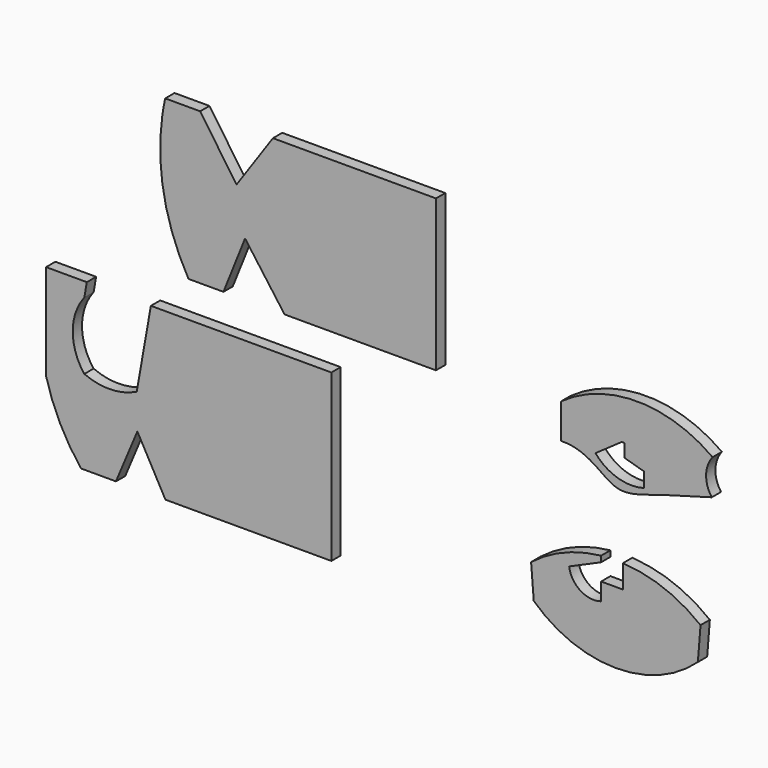
from build123d import *

# Parameters (mm, degrees)
F1_DEPTH = 25.4
F3_DEPTH = 25.4
F5_DEPTH = 25.4
F7_DEPTH = 25.4


with BuildPart() as f1:
    # F0 (on Front) → F1 (new body)
    with BuildSketch(Plane.XZ):
        with BuildLine():
            Line((-226.8574877262, 282.2478941011), (-303.0574877262, 282.2478941011))
            ThreePointArc((-303.0574877262, 282.2478941011), (-306.5667724299, 264.9196984604), (-309.4074877262, 247.4694325626))
            Line((-309.4074877262, 247.4694325626), (-309.4074877262, 117.1478941011))
            ThreePointArc((-309.4074877262, 117.1478941011), (-288.7438958182, 31.8593297616), (-252.2574877262, -47.9521058989))
            Line((-252.2574877262, -47.9521058989), (-176.0574877262, -47.9521058989))
            Line((-176.0574877262, -47.9521058989), (-128.8860591548, 69.9625086598))
            Line((-128.8860591548, 69.9625086598), (-42.7074877262, -47.9521058989))
            Line((-42.7074877262, -47.9521058989), (287.4925122738, -47.9521058989))
            Line((287.4925122738, -47.9521058989), (287.4925122738, 282.2478941011))
            Line((287.4925122738, 282.2478941011), (-68.1074877262, 282.2478941011))
            Line((-68.1074877262, 282.2478941011), (-147.4824877262, 167.2883387132))
            Line((-147.4824877262, 167.2883387132), (-226.8574877262, 282.2478941011))
        make_face()
        with BuildLine():
            Line((-309.4074877262, 117.1478941011), (-309.4074877262, 247.4694325626))
            ThreePointArc((-309.4074877262, 247.4694325626), (-314.0466817929, 182.3086633319), (-309.4074877262, 117.1478941011))
        make_face()
    extrude(amount=F1_DEPTH)


with BuildPart() as f3:
    # F2 (on Front) → F3 (new body)
    with BuildSketch(Plane.XZ):
        with BuildLine():
            Line((-474.0288363537, -126.2347238485), (-562.9288363537, -126.2347238485))
            Line((-562.9288363537, -126.2347238485), (-562.9288363537, -335.5858655814))
            ThreePointArc((-562.9288363537, -335.5858655814), (-532.7732824419, -415.8523413809), (-486.7288363537, -488.1847238485))
            Line((-486.7288363537, -488.1847238485), (-410.5288363537, -488.1847238485))
            Line((-410.5288363537, -488.1847238485), (-363.8376598831, -376.9356495162))
            Line((-363.8376598831, -376.9356495162), (-302.5788363537, -488.1847238485))
            Line((-302.5788363537, -488.1847238485), (59.3711636463, -488.1847238485))
            Line((59.3711636463, -488.1847238485), (59.3711636463, -126.2347238485))
            Line((59.3711636463, -126.2347238485), (-334.3288363537, -126.2347238485))
            Line((-334.3288363537, -126.2347238485), (-365.2034823429, -301.3335423341))
            ThreePointArc((-365.2034823429, -301.3335423341), (-422.0447358567, -315.3944719189), (-479.5421659946, -304.3182194233))
            ThreePointArc((-479.5421659946, -304.3182194233), (-504.8561307828, -230.910294715), (-479.5421659946, -157.5023700066))
            Line((-479.5421659946, -157.5023700066), (-474.0288363537, -126.2347238485))
        make_face()
    extrude(amount=F3_DEPTH)


with BuildPart() as f5:
    # F4 (on Front) → F5 (new body)
    with BuildSketch(Plane.XZ):
        with BuildLine():
            ThreePointArc((890.948049928, -18.4742202407), (725.848049928, 35.2107173548), (560.748049928, -18.4742202407))
            Line((560.748049928, -18.4742202407), (890.948049928, -18.4742202407))
        make_face()
        with BuildLine():
            Line((890.948049928, -18.4742202407), (560.748049928, -18.4742202407))
            Line((560.748049928, -18.4742202407), (560.748049928, -94.6742202407))
            add(Edge.make_bspline(
                [(560.748049928, -94.6742202407), (601.1304439834, -93.7782313596), (646.3805642348, -125.5473149903), (687.975454314, -153.5676392723), (726.9119481945, -143.5394538796), (741.3378953524, -139.1094826053)],
                knots=[0, 0, 0, 0, 0.2658070371, 0.4603208353, 0.6276610129, 0.6276610129, 0.6276610129, 0.6276610129], degree=3))
            Line((741.3378953524, -139.1094826053), (741.3378953524, -126.3980430136))
            ThreePointArc((741.3378953524, -126.3980430136), (683.622552597, -125.5429859615), (635.42719725, -93.7782313596))
            Line((635.42719725, -93.7782313596), (692.6449675436, -53.7139172805))
            Line((692.6449675436, -53.7139172805), (698.9949675436, -53.7139172805))
            Line((698.9949675436, -53.7139172805), (698.9949675436, -82.2889172805))
            Line((698.9949675436, -82.2889172805), (741.723049928, -94.5409977465))
            Line((741.723049928, -94.5409977465), (741.723049928, -126.2909977465))
            Line((741.723049928, -126.2909977465), (741.723049928, -138.9909977465))
            add(Edge.make_bspline(
                [(741.723049928, -138.9909977465), (745.3286248944, -137.8798650124), (775.1299197445, -128.2160469879), (778.6921623391, -126.9860638749), (889.0712335415, -96.1381000441)],
                knots=[0.6291535927, 0.6291535927, 0.6291535927, 0.6291535927, 0.6711656331, 1, 1, 1, 1], degree=3))
            ThreePointArc((889.0712335415, -96.1381000441), (876.7474646635, -56.9856678967), (890.948049928, -18.4742202407))
        make_face()
    extrude(amount=F5_DEPTH)


with BuildPart() as f7:
    # F6 (on Front) → F7 (new body)
    with BuildSketch(Plane.XZ):
        with BuildLine():
            ThreePointArc((647.7376957216, -286.6853071554), (567.0221836557, -306.8691734898), (495.0025209049, -348.5291125864))
            Line((495.0025209049, -348.5291125864), (500.8192232756, -421.3220833908))
            ThreePointArc((500.8192232756, -421.3220833908), (679.6042404484, -492.0629554948), (858.7930130333, -422.3511406348))
            Line((858.7930130333, -422.3511406348), (864.609715404, -349.5581698304))
            ThreePointArc((864.609715404, -349.5581698304), (784.9555511077, -304.3905678126), (695.3626957216, -285.4691929806))
            Line((695.3626957216, -285.4691929806), (695.3626957216, -336.2691929806))
            Line((695.3626957216, -336.2691929806), (647.7376957216, -336.2691929806))
            Line((647.7376957216, -336.2691929806), (647.7376957216, -374.3691929806))
            ThreePointArc((647.7376957216, -374.3691929806), (602.5055129428, -368.4448121137), (577.9560709508, -329.9951886373))
            Line((577.9560709508, -329.9951886373), (647.7376957216, -299.3853071554))
            Line((647.7376957216, -299.3853071554), (647.7376957216, -286.6853071554))
        make_face()
    extrude(amount=F7_DEPTH)


solid = Compound([f1.part, f3.part, f5.part, f7.part])
